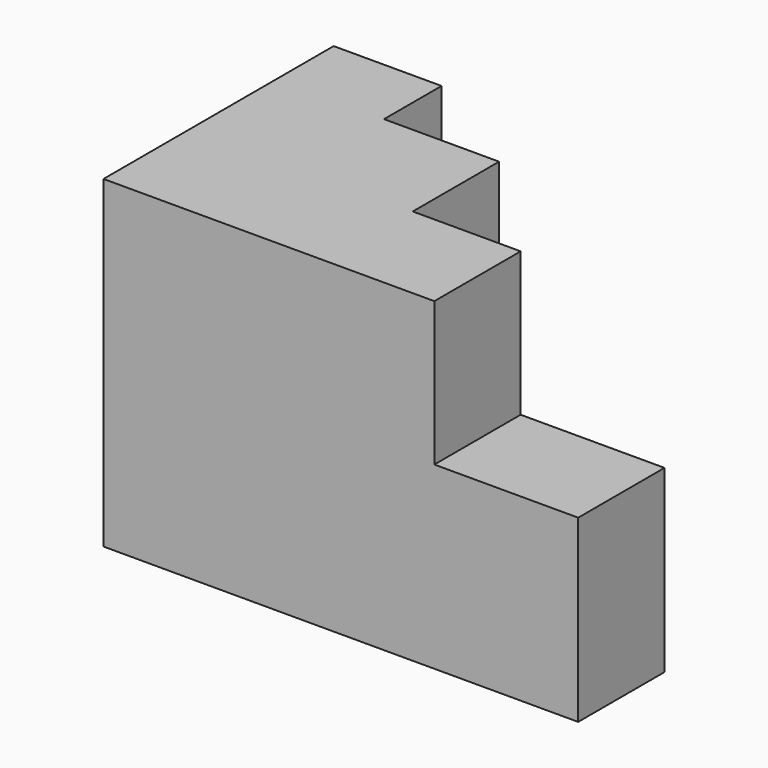
from build123d import *

# Parameters (mm, degrees)
F1_DEPTH = 57.15
F2_W     = 19.05
F2_H     = 31.75
F3_DEPTH = 25.4


with BuildPart() as f1:
    # F0 (on Top) → F1 (new body)
    with BuildSketch(Plane.XY):
        Polygon((0, 50.8), (0, 0), (58.42, 0), (58.42, 19.05), (39.37, 19.05), (39.37, 38.1), (19.05, 38.1), (19.05, 50.8), align=None)
    extrude(amount=F1_DEPTH)

    # F2 (on face) → F3 (join)
    with BuildSketch(Plane.YZ.offset(58.42)):
        with Locations((9.525, 15.875)):
            Rectangle(F2_W, F2_H)
    extrude(amount=F3_DEPTH)


solid = f1.part
